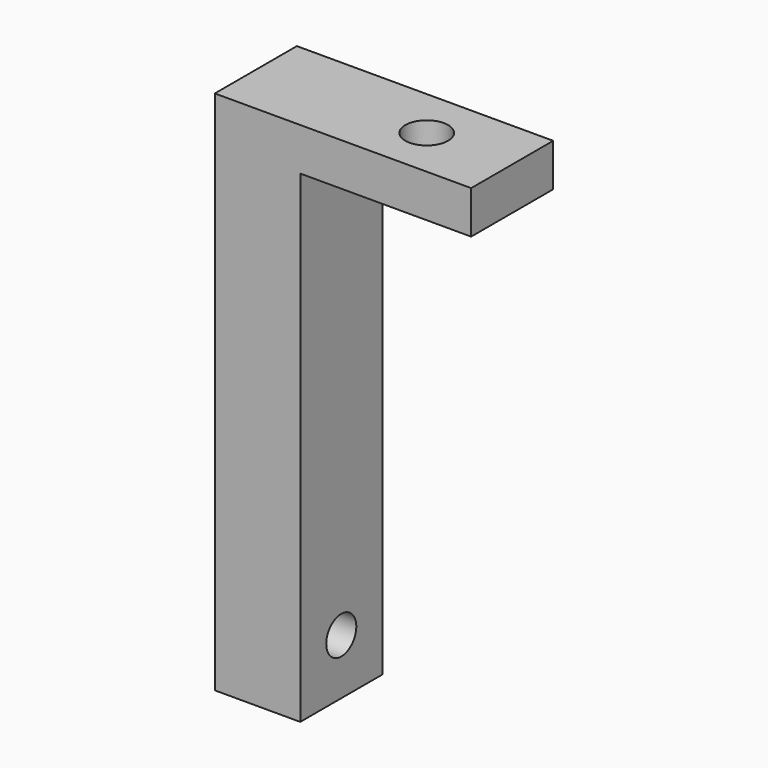
from build123d import *

# Parameters (mm, degrees)
F1_DEPTH = 12
F3_DEPTH = 25
F5_DEPTH = 25


with BuildPart() as f1:
    # F0 (on Front) → F1 (new body)
    with BuildSketch(Plane.XZ):
        Polygon((-1.5231755376, 71.0960855484), (-31.5231755376, 71.0960855484), (-31.5231755376, 9.5960855484), (-21.5231755376, 9.5960855484), (-21.5231755376, 66.0960855484), (-1.5231755376, 66.0960855484), align=None)
    extrude(amount=F1_DEPTH)

    # F2 (on face) → F3 (cut)
    with BuildSketch(Plane(origin=(-31.5231755376, 0, 0), x_dir=(0, -1, 0), z_dir=(-1, 0, 0))):
        with BuildLine():
            ThreePointArc((3.8, 16.0960855484), (6, 13.8960855484), (8.2, 16.0960855484))
            Line((8.2, 16.0960855484), (3.8, 16.0960855484))
        make_face()
        with BuildLine():
            Line((3.8, 16.0960855484), (8.2, 16.0960855484))
            ThreePointArc((8.2, 16.0960855484), (6, 18.2960855484), (3.8, 16.0960855484))
        make_face()
    extrude(amount=-F3_DEPTH, mode=Mode.SUBTRACT)

    # F4 (on face) → F5 (cut)
    with BuildSketch(Plane.XY.offset(71.0960855484)):
        with BuildLine():
            ThreePointArc((-9.3794432233, -4.7137606114), (-12.8094149262, -3.8562676857), (-13.6669078519, -7.2862393886))
            Line((-13.6669078519, -7.2862393886), (-9.3794432233, -4.7137606114))
        make_face()
        with BuildLine():
            Line((-9.3794432233, -4.7137606114), (-13.6669078519, -7.2862393886))
            ThreePointArc((-13.6669078519, -7.2862393886), (-10.8558415828, -8.4092873205), (-9.0231755376, -6))
            ThreePointArc((-9.0231755376, -6), (-9.1138882171, -5.3326660453), (-9.3794432233, -4.7137606114))
        make_face()
    extrude(amount=-F5_DEPTH, mode=Mode.SUBTRACT)


solid = f1.part
